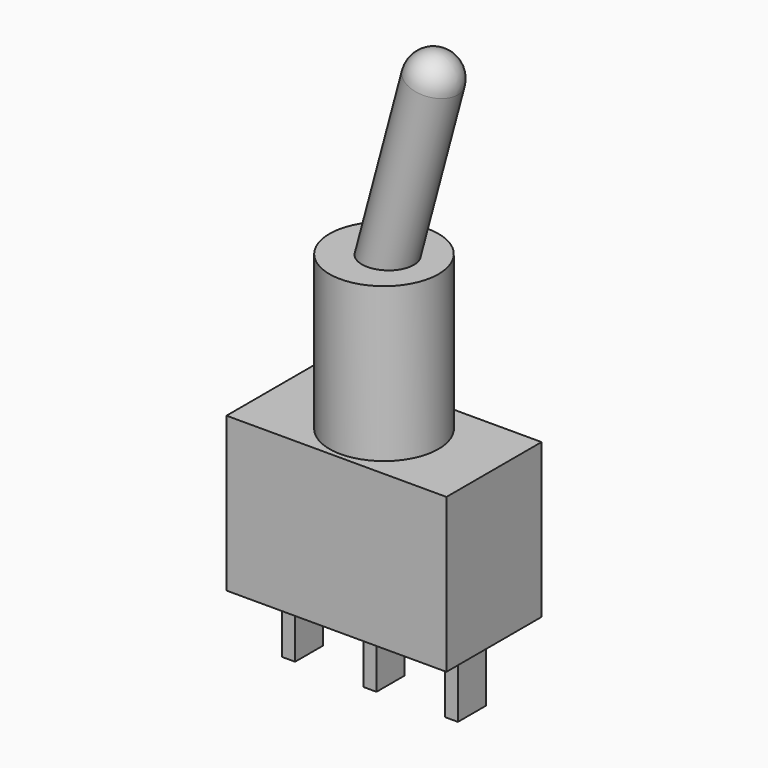
from build123d import *

# Parameters (mm, degrees)
BOX_W                  = 12.7
BOX_H                  = 6.86
BOX_DEPTH              = 8.89
CYLINDER_R             = 3.15
CYLINDER_DEPTH         = 8.89
BOX001_W               = 0.76
BOX001_H               = 2.03
BOX001_DEPTH           = 3.94
BOX002_W               = 0.76
BOX002_H               = 2.03
BOX002_DEPTH           = 3.94
BOX003_W               = 0.76
BOX003_H               = 2.03
BOX003_DEPTH           = 3.94
CYLINDER001_R          = 1.46
CYLINDER001_DEPTH      = 11
FUSION_PLACEMENT_ANGLE = 15


with BuildPart() as cube:
    # Box → Box (new body)
    with BuildSketch(Plane(origin=(-6.35, -3.43, 0), x_dir=(1, 0, 0), z_dir=(0, 0, 1))):
        with Locations((6.35, 3.43)):
            Rectangle(BOX_W, BOX_H)
    extrude(amount=BOX_DEPTH)


with BuildPart() as cylinder:
    # Cylinder → Cylinder (new body)
    with BuildSketch(Plane.XY.offset(8.89)):
        Circle(CYLINDER_R)
    extrude(amount=CYLINDER_DEPTH)


with BuildPart() as cube001:
    # Box001 → Box001 (new body)
    with BuildSketch(Plane(origin=(4.32, -1.015, -3.94), x_dir=(1, 0, 0), z_dir=(0, 0, 1))):
        with Locations((0.38, 1.015)):
            Rectangle(BOX001_W, BOX001_H)
    extrude(amount=BOX001_DEPTH)


with BuildPart() as cube002:
    # Box002 → Box002 (new body)
    with BuildSketch(Plane(origin=(-0.38, -1.015, -3.94), x_dir=(1, 0, 0), z_dir=(0, 0, 1))):
        with Locations((0.38, 1.015)):
            Rectangle(BOX002_W, BOX002_H)
    extrude(amount=BOX002_DEPTH)


with BuildPart() as cube003:
    # Box003 → Box003 (new body)
    with BuildSketch(Plane(origin=(-5.08, -1.015, -3.94), x_dir=(1, 0, 0), z_dir=(0, 0, 1))):
        with Locations((0.38, 1.015)):
            Rectangle(BOX003_W, BOX003_H)
    extrude(amount=BOX003_DEPTH)


with BuildPart() as sphere:
    # Sphere → Sphere (revolve)
    with BuildSketch(Plane(origin=(0, 0, 11), x_dir=(1, 0, 0), z_dir=(0, -1, 0))):
        with BuildLine():
            ThreePointArc((0, -1.46), (1.46, 0), (0, 1.46))
            Line((0, 1.46), (0, -1.46))
        make_face()
    revolve(axis=Axis((0, 0, 11), (0, 0, 1)))


with BuildPart() as fusion:
    # Cylinder001 → Cylinder001 (new body)
    with BuildSketch(Plane.XY):
        Circle(CYLINDER001_R)
    extrude(amount=CYLINDER001_DEPTH)

    # Fusion: union Sphere
    add(sphere.part)


with BuildPart() as fusion_1:
    # Fusion placement: moved
    add(fusion.part.moved(Location((0, 0, 17))).rotate(Axis((0, 0, 17), (0, 1, 0)), FUSION_PLACEMENT_ANGLE))


solid = Compound([cube.part, cylinder.part, cube001.part, cube002.part, cube003.part, fusion_1.part])
